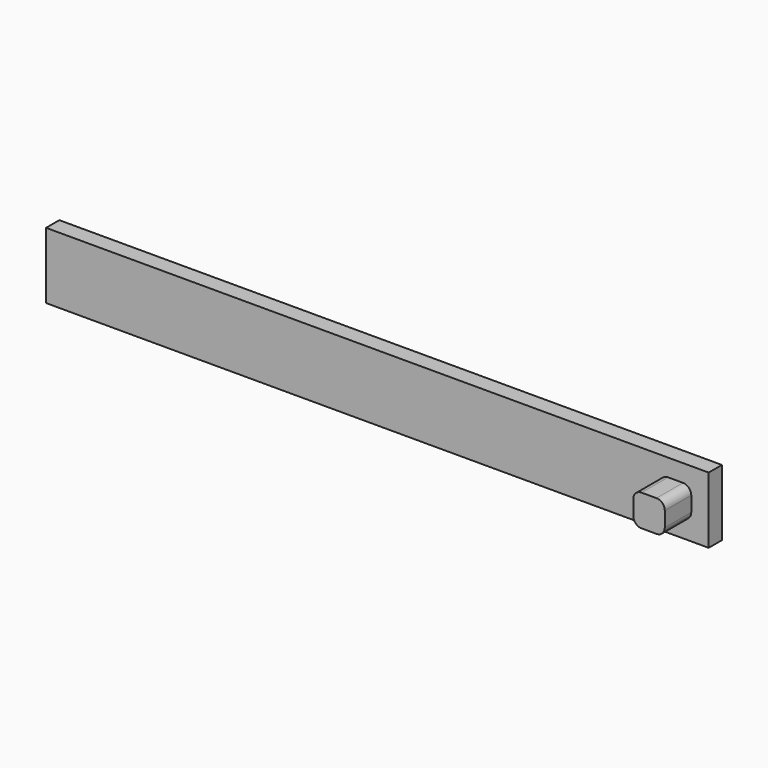
from build123d import *

# Parameters (mm, degrees)
F0_W     = 40
F0_H     = 4
F0_W_2   = 1.9
F0_H_2   = 1.9
F1_DEPTH = 1
F2_W     = 1.9
F2_H     = 1.9
F3_DEPTH = 2
F4_R     = 0.5


with BuildPart() as f1:
    # F0 (on Front) → F1 (new body)
    with BuildSketch(Plane.XZ):
        Rectangle(F0_W, F0_H)
        with Locations((17.95, 0)):
            Rectangle(F0_W_2, F0_H_2, mode=Mode.SUBTRACT)
        with Locations((17.95, 0)):
            Rectangle(F0_W_2, F0_H_2)
    extrude(amount=F1_DEPTH)

    # F2 (on face) → F3 (join)
    with BuildSketch(Plane.XZ.offset(1)):
        with Locations((18, 0)):
            Rectangle(F2_W, F2_H)
    extrude(amount=F3_DEPTH)

    # F4
    f4_edges = [f1.edges().sort_by_distance(p)[0] for p in [
        (18.95, -2, 0.95),
        (17.05, -2, 0.95),
        (18.95, -2, -0.95),
        (17.05, -2, -0.95),
    ]]
    fillet(f4_edges, radius=F4_R)


solid = f1.part
